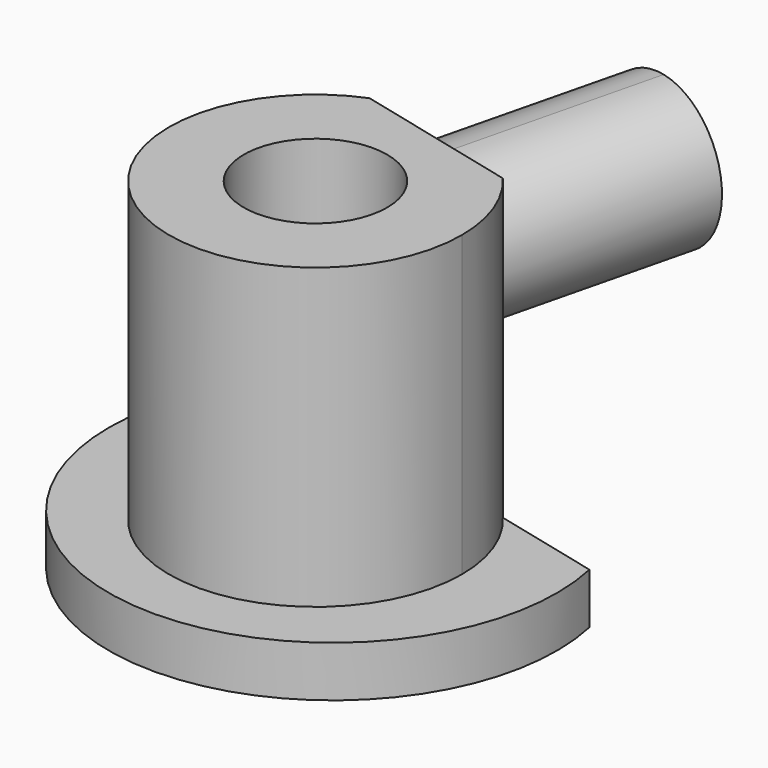
from build123d import *

# Parameters (mm, degrees)
F1_DEPTH = 1.7
F2_R     = 2.4
F3_DEPTH = 10
F5_DEPTH = 7.5


with BuildPart() as f1:
    # F0 (on Top) → F1 (new body)
    with BuildSketch(Plane.XY):
        with BuildLine():
            Line((7.335345, 1.562919), (-5.774183, 4.786315))
            ThreePointArc((-5.774183, 4.786315), (-1.790775, -7.283071), (7.335345, 1.562919))
        make_face()
    extrude(amount=F1_DEPTH)

    # F2 (on face) → F3 (join)
    with BuildSketch(Plane.XY.offset(1.7)):
        with BuildLine():
            ThreePointArc((-1.825206, 3.815333), (-2.744676, -4.791199), (4.9, -0.732042))
            ThreePointArc((4.9, -0.732042), (4.597097, 0.964042), (3.725836, 2.450432))
            Line((3.725836, 2.450432), (-1.825206, 3.815333))
        make_face()
        with Locations((0, -0.732042)):
            Circle(F2_R, mode=Mode.SUBTRACT)
    extrude(amount=F3_DEPTH)

    # F4 (on face) → F5 (join)
    with BuildSketch(Plane(origin=(0.780581, 3.174617, 0), x_dir=(-0.971076, 0.23877, 0), z_dir=(0.23877, 0.971076, 0))):
        with BuildLine():
            ThreePointArc((2.32521, 8.7), (1.592977, 10.467767), (-0.17479, 11.2))
            ThreePointArc((-0.17479, 11.2), (-1.942557, 6.932233), (2.32521, 8.7))
        make_face()
    extrude(amount=F5_DEPTH)


solid = f1.part
